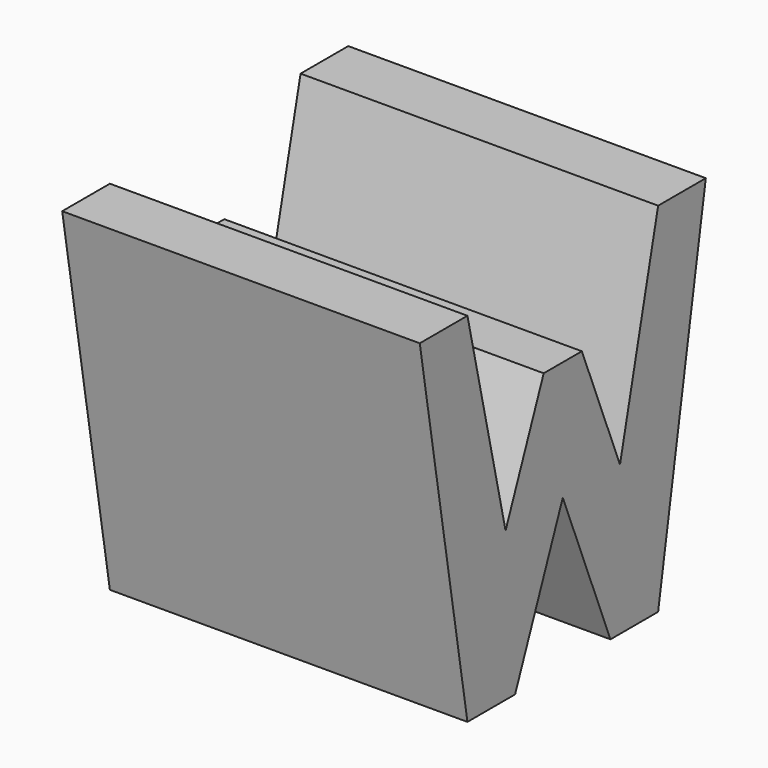
from build123d import *

# Parameters (mm, degrees)
F0_W     = 38.1
F0_H     = 38.1
F1_DEPTH = 38.1
F4_DEPTH = 38.1


with BuildPart() as f1:
    # F0 (on Front) → F1 (new body)
    with BuildSketch(Plane.XZ):
        with Locations((19.05, 19.05)):
            Rectangle(F0_W, F0_H)
    extrude(amount=F1_DEPTH)

    # F3 (on offset) → F4 (cut)
    with BuildSketch(Plane.YZ.offset(38.1)):
        Polygon((-6.35, 38.1), (-31.75, 38.1), (-26.67, 15.875), (-21.59, 28.575), (-16.51, 28.575), (-11.43, 15.875), align=None)
        Polygon((-31.75, 0), (-38.1, 38.1), (-38.1, 0), align=None)
        Polygon((-19.05, 15.875), (-25.4, 0), (-12.7, 0), align=None)
        Polygon((0, 0), (0, 38.1), (-6.35, 0), align=None)
    extrude(amount=-F4_DEPTH, mode=Mode.SUBTRACT)


solid = f1.part
